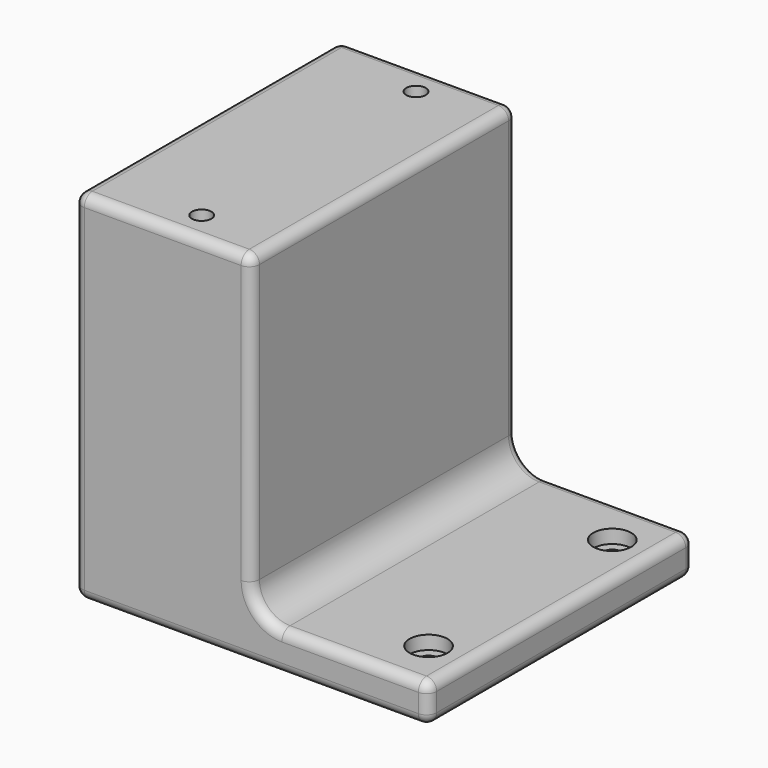
from build123d import *

# Parameters (mm, degrees)
F1_DEPTH       = 82.55
F2_R           = 7.62
F3_R           = 2.54
F6_D           = 4.826
F6_DEPTH       = 12.7
F6_TIP         = 1.4498766737
F6_ON_F5_D     = 4.826
F6_ON_F5_DEPTH = 12.7
F6_ON_F5_TIP   = 1.4498766737
F8_D           = 4.826
F8_CBORE_D     = 9.4742
F8_CBORE_DEPTH = 3.3782


with BuildPart() as f1:
    # F0 (on Front) → F1 (new body)
    with BuildSketch(Plane.XZ):
        Polygon((0, 88.9), (0, 0), (88.2142, 0), (88.2142, 9.7282), (44.1071, 9.7282), (44.1071, 88.9), align=None)
    extrude(amount=F1_DEPTH)

    # F2
    f2_edges = [f1.edges().sort_by_distance(p)[0] for p in [
        (44.1071, -41.275, 9.7282),
    ]]
    fillet(f2_edges, radius=F2_R)

    # F3
    f3_edges = [f1.edges().sort_by_distance(p)[0] for p in [
        (44.1071, -41.275, 88.9),
        (0, -41.275, 88.9),
        (0, -41.275, 0),
        (88.2142, -41.275, 9.7282),
        (88.2142, -41.275, 0),
        (22.05355, 0, 88.9),
        (22.05355, -82.55, 88.9),
        (44.1071, -82.55, 53.1241),
        (69.97065, -82.55, 9.7282),
        (69.97065, 0, 9.7282),
        (44.1071, 0, 53.1241),
        (0, 0, 44.45),
        (44.1071, 0, 0),
        (0, -82.55, 44.45),
        (44.1071, -82.55, 0),
        (88.2142, -82.55, 4.8641),
        (88.2142, 0, 4.8641),
    ]]
    fillet(f3_edges, radius=F3_R)

    # F6
    with Locations(Plane.XY.offset(88.9)):
        with Locations((25.4, -7.9375), (25.4, -74.6125)):
            Hole(F6_D / 2, depth=F6_DEPTH)
            with Locations((0, 0, -(F6_DEPTH + F6_TIP / 2))):  # 118° drill point
                Cone(0, F6_D / 2, F6_TIP, mode=Mode.SUBTRACT)

    # F6 on F5
    with Locations(Plane(origin=(0, 0, 0), x_dir=(1, 0, 0), z_dir=(0, 0, -1))):
        with Locations((20.32, 69.85), (20.32, 12.7)):
            Hole(F6_ON_F5_D / 2, depth=F6_ON_F5_DEPTH)
            with Locations((0, 0, -(F6_ON_F5_DEPTH + F6_ON_F5_TIP / 2))):  # 118° drill point
                Cone(0, F6_ON_F5_D / 2, F6_ON_F5_TIP, mode=Mode.SUBTRACT)

    # F8 (through all)
    with Locations(Plane.XY.offset(9.7282)):
        with Locations((78.0542, -12.7), (78.0542, -69.85)):
            CounterBoreHole(F8_D / 2, F8_CBORE_D / 2, F8_CBORE_DEPTH)


solid = f1.part
